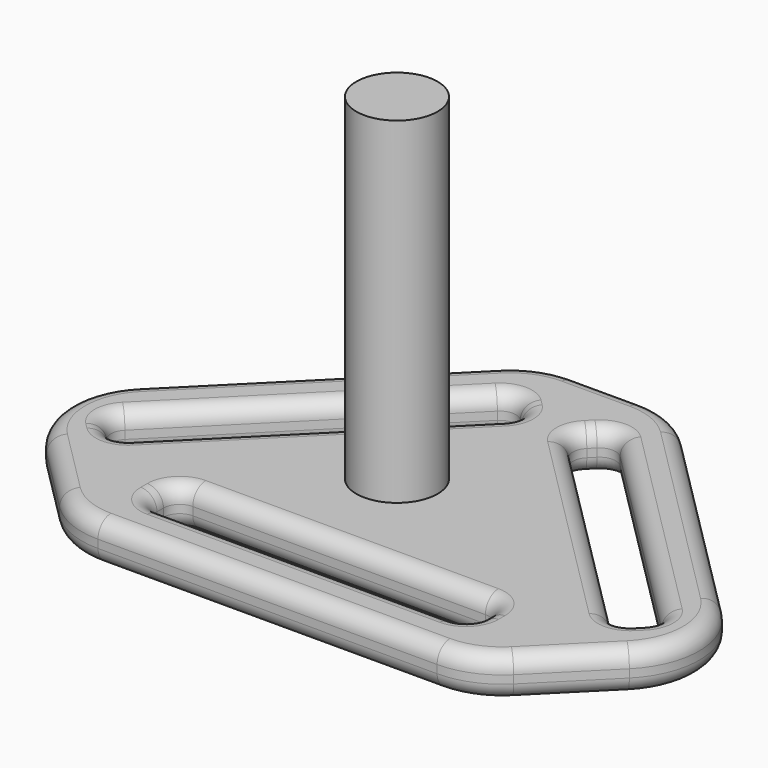
from build123d import *

# Parameters (mm, degrees)
F1_DEPTH = 5
F2_W     = 40
F2_H     = 5
F3_DEPTH = 25
F4_R     = 10
F5_R     = 2
F6_R     = 2
F7_R     = 5.000843
F8_DEPTH = 41.4


with BuildPart() as f1:
    # F0 (on Top) → F1 (new body)
    with BuildSketch(Plane.XY):
        Polygon((8.311183, 52.5), (-8.311183, 52.5), (-42.905592, 17.905592), (-25, 0), (25, 0), (42.905592, 17.905592), align=None)
    extrude(amount=F1_DEPTH)

    # F2 (on face) → F3 (cut)
    with BuildSketch(Plane.XY.offset(5)):
        with Locations((0, 8.5)):
            Rectangle(F2_W, F2_H)
        Polygon((-34.42031, 17.905592), (-30.884776, 14.370058), (-2.600505, 42.654329), (-6.136039, 46.189863), align=None)
        Polygon((6.136039, 46.189863), (2.600505, 42.654329), (30.884776, 14.370058), (34.42031, 17.905592), align=None)
    extrude(amount=-F3_DEPTH, mode=Mode.SUBTRACT)

    # F4
    f4_edges = [f1.edges().sort_by_distance(p)[0] for p in [
        (-42.905592, 17.905592, 2.5),
        (42.905592, 17.905592, 2.5),
        (25, 0, 2.5),
        (-25, 0, 2.5),
        (8.311183, 52.5, 2.5),
        (-8.311183, 52.5, 2.5),
    ]]
    fillet(f4_edges, radius=F4_R)

    # F5
    f5_edges = [f1.edges().sort_by_distance(p)[0] for p in [
        (-6.136039, 46.189863, 2.5),
        (6.136039, 46.189863, 2.5),
        (-2.600505, 42.654329, 2.5),
        (34.42031, 17.905592, 2.5),
        (20, 11, 2.5),
        (-34.42031, 17.905592, 2.5),
        (-20, 11, 2.5),
        (-20, 6, 2.5),
        (20, 6, 2.5),
        (30.884776, 14.370058, 2.5),
        (-30.884776, 14.370058, 2.5),
        (2.600505, 42.654329, 2.5),
    ]]
    fillet(f5_edges, radius=F5_R)

    # F6
    f6_edges = [f1.edges().sort_by_distance(p)[0] for p in [
        (-20, 8.5, 5),
        (-19.414214, 10.414214, 5),
        (-19.414214, 6.585786, 5),
        (0, 11, 5),
        (0, 6, 5),
        (19.414214, 10.414214, 5),
        (19.414214, 6.585786, 5),
        (20, 8.5, 5),
        (23.53732, 37.273864, 5),
        (38.763456, 17.905592, 5),
        (7.995882, 51.738795, 5),
        (31.881728, 6.881728, 5),
        (0, 52.5, 5),
        (24.684699, 0.761205, 5),
        (-7.995882, 51.738795, 5),
        (0, 0, 5),
        (-23.53732, 37.273864, 5),
        (-24.684699, 0.761205, 5),
        (-38.763456, 17.905592, 5),
        (-31.881728, 6.881728, 5),
        (-20.278175, 32.047727, 5),
        (-6.136039, 45.361436, 5),
        (-33.591883, 17.905592, 5),
        (-4.368272, 44.422096, 5),
        (-32.652543, 16.137825, 5),
        (-3.428932, 42.654329, 5),
        (-30.884776, 15.198485, 5),
        (-16.742641, 28.512193, 5),
        (32.652543, 16.137825, 5),
        (30.884776, 15.198485, 5),
        (33.591883, 17.905592, 5),
        (16.742641, 28.512193, 5),
        (20.278175, 32.047727, 5),
        (3.428932, 42.654329, 5),
        (6.136039, 45.361436, 5),
        (4.368272, 44.422096, 5),
        (-20, 8.5, 0),
        (-19.414214, 10.414214, 0),
        (-19.414214, 6.585786, 0),
        (0, 11, 0),
        (0, 6, 0),
        (19.414214, 10.414214, 0),
        (19.414214, 6.585786, 0),
        (20, 8.5, 0),
        (23.53732, 37.273864, 0),
        (38.763456, 17.905592, 0),
        (7.995882, 51.738795, 0),
        (31.881728, 6.881728, 0),
        (0, 52.5, 0),
        (24.684699, 0.761205, 0),
        (-7.995882, 51.738795, 0),
        (0, 0, 0),
        (-23.53732, 37.273864, 0),
        (-24.684699, 0.761205, 0),
        (-38.763456, 17.905592, 0),
        (-31.881728, 6.881728, 0),
        (-20.278175, 32.047727, 0),
        (-6.136039, 45.361436, 0),
        (-33.591883, 17.905592, 0),
        (-4.368272, 44.422096, 0),
        (-32.652543, 16.137825, 0),
        (-3.428932, 42.654329, 0),
        (-30.884776, 15.198485, 0),
        (-16.742641, 28.512193, 0),
        (32.652543, 16.137825, 0),
        (30.884776, 15.198485, 0),
        (33.591883, 17.905592, 0),
        (16.742641, 28.512193, 0),
        (20.278175, 32.047727, 0),
        (3.428932, 42.654329, 0),
        (6.136039, 45.361436, 0),
        (4.368272, 44.422096, 0),
    ]]
    fillet(f6_edges, radius=F6_R)

    # F7 (on face) → F8 (join)
    with BuildSketch(Plane.XY.offset(5)):
        with Locations((-3.872428, 24.742519)):
            Circle(F7_R)
    extrude(amount=F8_DEPTH)


solid = f1.part
